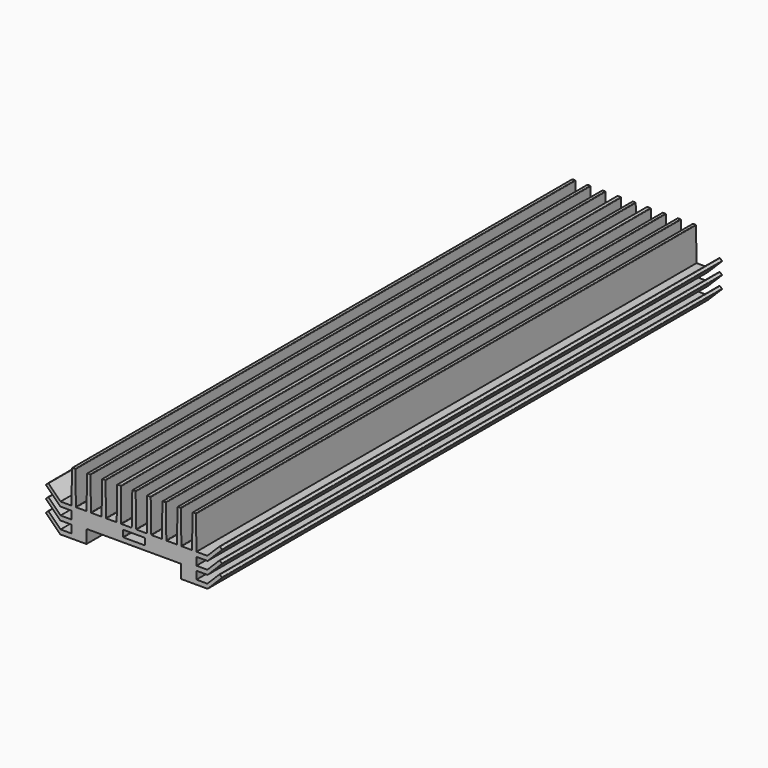
from build123d import *

# Parameters (mm, degrees)
F1_DEPTH = 280
F3_DEPTH = 280


with BuildPart() as f1:
    # F0 (on Front) → F1 (new body)
    with BuildSketch(Plane.XZ):
        with BuildLine():
            Line((-26.003272, 3.696673), (-26.246255, 18.303327))
            ThreePointArc((-26.246255, 18.303327), (-26.305987, 18.442593), (-26.446228, 18.5))
            Line((-26.446228, 18.5), (-27.552839, 18.5))
            ThreePointArc((-27.552839, 18.5), (-27.693074, 18.442597), (-27.752811, 18.303339))
            Line((-27.752811, 18.303339), (-27.996716, 3.696661))
            Line((-27.996716, 3.696661), (-27.996716, -9.5))
            Line((-27.996716, -9.5), (-21.35, -9.5))
            ThreePointArc((-21.35, -9.5), (-21.208579, -9.441421), (-21.15, -9.3))
            Line((-21.15, -9.3), (-21.15, -3.7))
            ThreePointArc((-21.15, -3.7), (-21.091421, -3.558579), (-20.95, -3.5))
            Line((-20.95, -3.5), (0, -3.502103))
            Line((0, -3.502103), (0, -1.502103))
            Line((0, -1.502103), (-4.654982, -1.502103))
            ThreePointArc((-4.654982, -1.502103), (-4.796403, -1.443525), (-4.854982, -1.302103))
            Line((-4.854982, -1.302103), (-4.854982, 1.297897))
            ThreePointArc((-4.854982, 1.297897), (-4.796403, 1.439318), (-4.654982, 1.497897))
            Line((-4.654982, 1.497897), (0, 1.497897))
            Line((0, 1.497897), (0, 18.497629))
            Line((0, 18.497629), (-0.55284, 18.497629))
            ThreePointArc((-0.55284, 18.497629), (-0.693076, 18.440226), (-0.752812, 18.300968))
            Line((-0.752812, 18.300968), (-0.996713, 3.694558))
            ThreePointArc((-0.996713, 3.694558), (-1.056449, 3.5553), (-1.196685, 3.497897))
            Line((-1.196685, 3.497897), (-5.550001, 3.497897))
            ThreePointArc((-5.550001, 3.497897), (-5.691423, 3.556475), (-5.750001, 3.697897))
            Line((-5.750001, 3.697897), (-5.750001, 18.3))
            ThreePointArc((-5.750001, 18.3), (-5.80858, 18.441421), (-5.950001, 18.5))
            Line((-5.950001, 18.5), (-7.302839, 18.5))
            ThreePointArc((-7.302839, 18.5), (-7.443074, 18.442597), (-7.502811, 18.303339))
            Line((-7.502811, 18.303339), (-7.746716, 3.696661))
            ThreePointArc((-7.746716, 3.696661), (-7.806452, 3.557403), (-7.946688, 3.5))
            Line((-7.946688, 3.5), (-12.303299, 3.5))
            ThreePointArc((-12.303299, 3.5), (-12.44354, 3.557407), (-12.503272, 3.696673))
            Line((-12.503272, 3.696673), (-12.746255, 18.303327))
            ThreePointArc((-12.746255, 18.303327), (-12.805987, 18.442593), (-12.946228, 18.5))
            Line((-12.946228, 18.5), (-14.052839, 18.5))
            ThreePointArc((-14.052839, 18.5), (-14.193074, 18.442597), (-14.252811, 18.303339))
            Line((-14.252811, 18.303339), (-14.496716, 3.696661))
            ThreePointArc((-14.496716, 3.696661), (-14.556452, 3.557403), (-14.696688, 3.5))
            Line((-14.696688, 3.5), (-19.053299, 3.5))
            ThreePointArc((-19.053299, 3.5), (-19.19354, 3.557407), (-19.253272, 3.696673))
            Line((-19.253272, 3.696673), (-19.496255, 18.303327))
            ThreePointArc((-19.496255, 18.303327), (-19.555987, 18.442593), (-19.696228, 18.5))
            Line((-19.696228, 18.5), (-20.802839, 18.5))
            ThreePointArc((-20.802839, 18.5), (-20.943074, 18.442597), (-21.002811, 18.303339))
            Line((-21.002811, 18.303339), (-21.246716, 3.696661))
            ThreePointArc((-21.246716, 3.696661), (-21.306452, 3.557403), (-21.446688, 3.5))
            Line((-21.446688, 3.5), (-25.803299, 3.5))
            ThreePointArc((-25.803299, 3.5), (-25.94354, 3.557407), (-26.003272, 3.696673))
        make_face()
    extrude(amount=F1_DEPTH)

    # F2 (on face) → F3 (join)
    with BuildSketch(Plane.XZ.offset(280)):
        with BuildLine():
            Line((-27.996716, -9.5), (-27.996716, -7.503925))
            Line((-27.996716, -7.503925), (-32.788628, -7.503925))
            ThreePointArc((-32.788628, -7.503925), (-32.865164, -7.488701), (-32.930049, -7.445347))
            Line((-32.930049, -7.445347), (-38.24641, -2.128986))
            ThreePointArc((-38.24641, -2.128986), (-38.387831, -2.070407), (-38.529253, -2.128986))
            Line((-38.529253, -2.128986), (-39.30707, -2.906803))
            ThreePointArc((-39.30707, -2.906803), (-39.365649, -3.048225), (-39.30707, -3.189646))
            Line((-39.30707, -3.189646), (-33.055295, -9.441421))
            ThreePointArc((-33.055295, -9.441421), (-32.99041, -9.484776), (-32.913873, -9.5))
            Line((-32.913873, -9.5), (-27.996716, -9.5))
        make_face()
        with BuildLine():
            ThreePointArc((-32.788628, -2.003925), (-32.865164, -1.988701), (-32.930049, -1.945347))
            Line((-32.930049, -1.945347), (-38.24641, 3.371014))
            ThreePointArc((-38.24641, 3.371014), (-38.387831, 3.429593), (-38.529253, 3.371014))
            Line((-38.529253, 3.371014), (-39.30707, 2.593197))
            ThreePointArc((-39.30707, 2.593197), (-39.365649, 2.451775), (-39.30707, 2.310354))
            Line((-39.30707, 2.310354), (-33.055295, -3.941421))
            ThreePointArc((-33.055295, -3.941421), (-32.99041, -3.984776), (-32.913873, -4))
            Line((-32.913873, -4), (-27.996716, -4))
            Line((-27.996716, -4), (-27.996716, -2.003925))
            Line((-27.996716, -2.003925), (-32.788628, -2.003925))
        make_face()
        with BuildLine():
            ThreePointArc((-32.788628, 3.496075), (-32.865164, 3.511299), (-32.930049, 3.554653))
            Line((-32.930049, 3.554653), (-38.24641, 8.871014))
            ThreePointArc((-38.24641, 8.871014), (-38.387831, 8.929593), (-38.529253, 8.871014))
            Line((-38.529253, 8.871014), (-39.30707, 8.093197))
            ThreePointArc((-39.30707, 8.093197), (-39.365649, 7.951775), (-39.30707, 7.810354))
            Line((-39.30707, 7.810354), (-33.055295, 1.558579))
            ThreePointArc((-33.055295, 1.558579), (-32.99041, 1.515224), (-32.913873, 1.5))
            Line((-32.913873, 1.5), (-27.996716, 1.5))
            Line((-27.996716, 1.5), (-27.996716, 3.496075))
            Line((-27.996716, 3.496075), (-32.788628, 3.496075))
        make_face()
    extrude(amount=-F3_DEPTH)

    # F4: F1 across face


with BuildPart() as f1_1:
    add(f1.part)
    add(f1.part.mirror(Plane(origin=(0, -140, 9.997763), x_dir=(0, 1, 0), z_dir=(1, 0, 0))))


solid = f1_1.part
